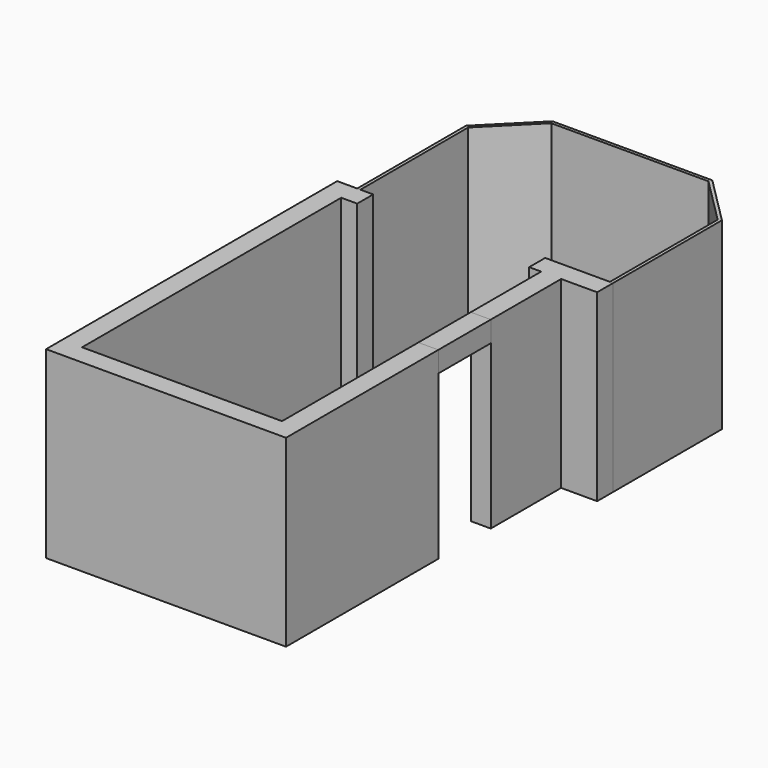
from build123d import *

# Parameters (mm, degrees)
F1_DEPTH = 2300
F2_W     = 820
F2_H     = 260
F3_DEPTH = 250
F4_DEPTH = 2300


with BuildPart() as f1:
    # F0 (on Top) → F1 (new body)
    with BuildSketch(Plane.XY):
        Polygon((-1250, -2025), (-1250, 2025), (-1050, 2025), (-1050, 2275), (-1210, 2275), (-1250, 2275), (-1500, 2275), (-1500, -2275), (1500, -2275), (1500, 105), (1250, 105), (1250, -2025), align=None)
        Polygon((1100, 2275), (1100, 2025), (1250, 2025), (1250, 925), (1500, 925), (1500, 2025), (1950, 2025), (1950, 2275), (1910, 2275), (1500, 2275), align=None)
    extrude(amount=F1_DEPTH)


with BuildPart() as f3:
    # F2 (on face) → F3 (new body, through all)
    with BuildSketch(Plane.YZ.offset(1500)):
        with Locations((515, 2170)):
            Rectangle(F2_W, F2_H)
    extrude(amount=-F3_DEPTH)


with BuildPart() as f4:
    # F0 (on Top) → F4 (new body)
    with BuildSketch(Plane.XY):
        Polygon((-1250, 2275), (-1210, 2275), (-1210, 3958.431458), (-632.390693, 4536.040764), (1332.390693, 4536.040764), (1910, 3958.431458), (1910, 2275), (1950, 2275), (1950, 3975), (1348.959236, 4576.040764), (-648.959236, 4576.040764), (-1250, 3975), align=None)
    extrude(amount=F4_DEPTH)


solid = Compound([f1.part, f3.part, f4.part])
